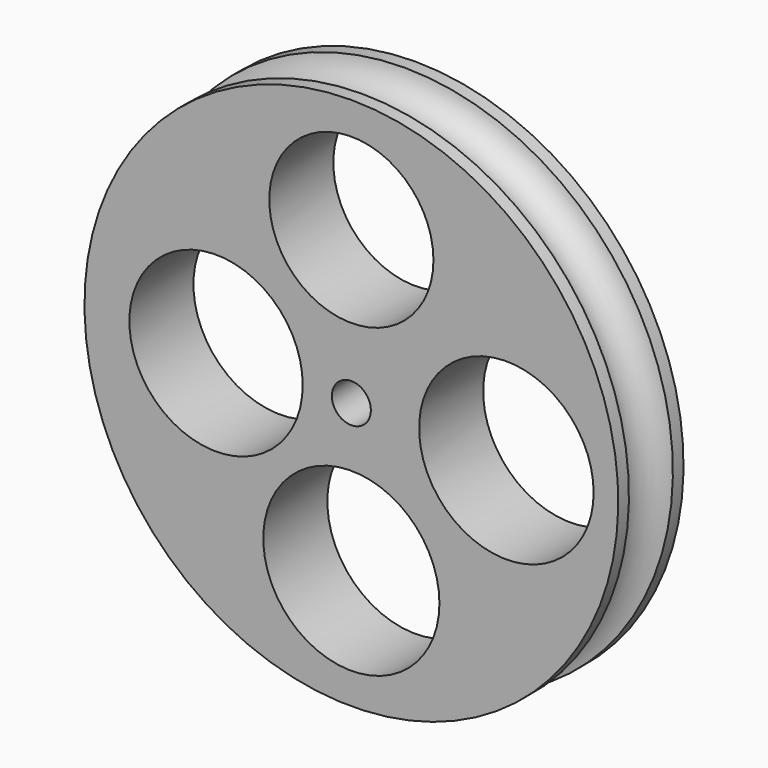
from build123d import *

# Parameters (mm, degrees)
F2_R          = 1.459965
F3_DEPTH      = 23.4188
F3_DEPTH_BACK = 25.4
F5_R          = 6.151073
F5_R_2        = 6.494421
F5_R_3        = 6.5989
F5_R_4        = 6.538752
F6_DEPTH      = 38.608
F6_DEPTH_BACK = 35.814


with BuildPart() as f1:
    # F0 (on Right) → F1 (revolve)
    with BuildSketch(Plane.YZ):
        with BuildLine():
            Line((-3, 20), (-3, 0))
            Line((-3, 0), (3, 0))
            Line((3, 0), (3, 20.092177))
            Line((3, 20.092177), (2, 20.092177))
            ThreePointArc((2, 20.092177), (0.038764, 18.363927), (-2, 20))
            Line((-2, 20), (-3, 20))
        make_face()
    revolve(axis=Axis((0, 0, 0), (0, 1, 0)))


with BuildPart() as f3:
    # F2 (on Front) → F3 (new body, two sides)
    with BuildSketch(Plane.XZ) as f3_sk:
        Circle(F2_R)
    extrude(amount=F3_DEPTH)
    extrude(f3_sk.sketch, amount=-F3_DEPTH_BACK)


with BuildPart() as f1_1:
    add(f1.part)

    # F4: cut F3
    add(f3.part, mode=Mode.SUBTRACT)


with BuildPart() as f6:
    # F5 (on Front) → F6 (new body, two sides)
    with BuildSketch(Plane.XZ) as f6_sk:
        with Locations((0, 11.43)):
            Circle(F5_R)
        with Locations((-10.139517, 0)):
            Circle(F5_R_2)
        with Locations((0, -11.06129)):
            Circle(F5_R_3)
        with Locations((11.614354, 0)):
            Circle(F5_R_4)
    extrude(amount=F6_DEPTH)
    extrude(f6_sk.sketch, amount=-F6_DEPTH_BACK)


with BuildPart() as f1_2:
    add(f1_1.part)

    # F7: cut F6
    add(f6.part, mode=Mode.SUBTRACT)


solid = f1_2.part
